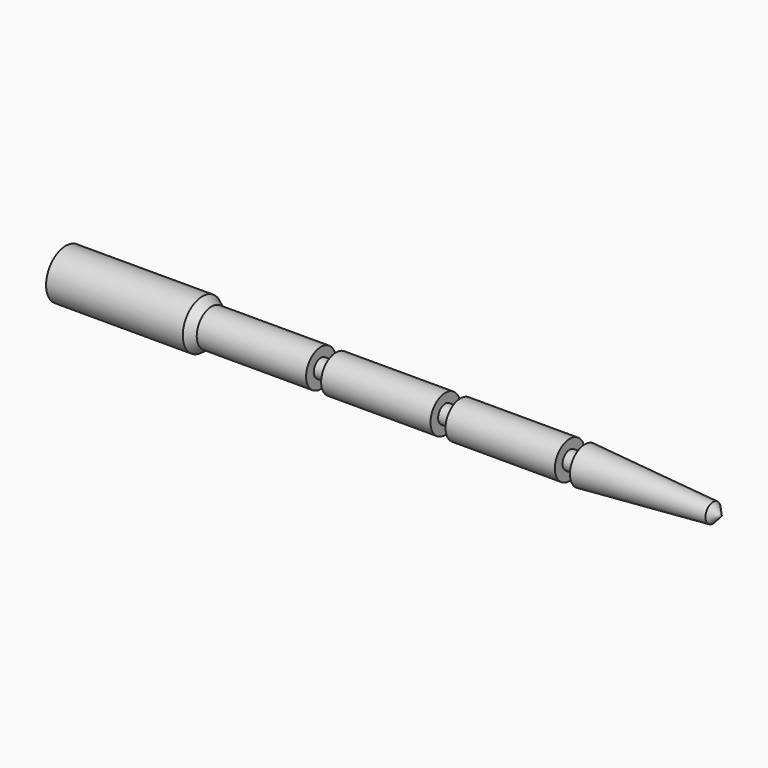
from build123d import *


with BuildPart() as f1:
    # F0 (on Front) → F1 (revolve)
    with BuildSketch(Plane.XZ):
        Polygon((118.378565, 1.743502), (118.378565, 0), (120, 0), align=None)
        Polygon((0, 4.5), (0, 0), (118.378565, 0), (118.378565, 1.743502), (94.921205, 3.401331), (94.921205, 1.651331), (92.171205, 1.651331), (92.171205, 3.401331), (72.171205, 3.401331), (72.171205, 1.651331), (69.421205, 1.651331), (69.421205, 3.401331), (49.421205, 3.401331), (49.421205, 1.651331), (46.671205, 1.651331), (46.671205, 3.401331), (26.671205, 3.401331), (25, 4.5), align=None)
    revolve(axis=Axis((60, 0, 0), (1, 0, 0)))


solid = f1.part
